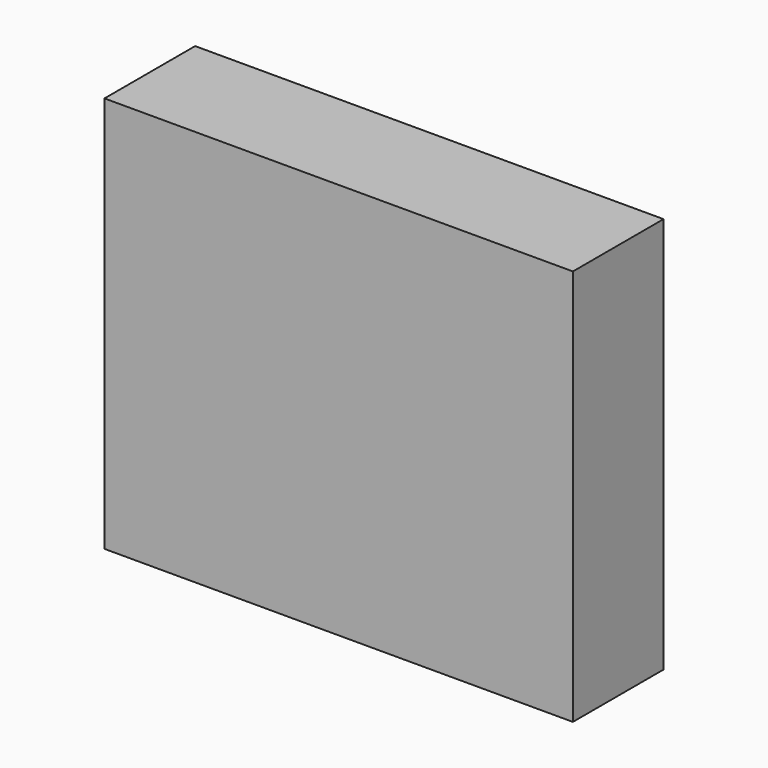
from build123d import *

# Parameters (mm, degrees)
BOX004_W               = 2500
BOX004_H               = 558.8
BOX004_DEPTH           = 457.2
BOX003_W               = 2500
BOX003_H               = 558.8
BOX003_DEPTH           = 457.2
BOX002_W               = 2500
BOX002_H               = 558.8
BOX002_DEPTH           = 457.2
BOX001_W               = 2500
BOX001_H               = 558.8
BOX001_DEPTH           = 457.2
BOX_W                  = 2520
BOX_H                  = 609.6
BOX_DEPTH              = 2133.6
CUT003_PLACEMENT_ANGLE = 180


with BuildPart() as cube004:
    # Box004 → Box004 (new body)
    with BuildSketch(Plane(origin=(25.4, 0, 1651), x_dir=(1, 0, 0), z_dir=(0, 0, 1))):
        with Locations((1250, 279.4)):
            Rectangle(BOX004_W, BOX004_H)
    extrude(amount=BOX004_DEPTH)


with BuildPart() as cube003:
    # Box003 → Box003 (new body)
    with BuildSketch(Plane(origin=(25.4, 0, 685.8), x_dir=(1, 0, 0), z_dir=(0, 0, 1))):
        with Locations((1250, 279.4)):
            Rectangle(BOX003_W, BOX003_H)
    extrude(amount=BOX003_DEPTH)


with BuildPart() as cube002:
    # Box002 → Box002 (new body)
    with BuildSketch(Plane(origin=(25.4, 0, 203.2), x_dir=(1, 0, 0), z_dir=(0, 0, 1))):
        with Locations((1250, 279.4)):
            Rectangle(BOX002_W, BOX002_H)
    extrude(amount=BOX002_DEPTH)


with BuildPart() as cube001:
    # Box001 → Box001 (new body)
    with BuildSketch(Plane(origin=(25.4, 0, 1168.4), x_dir=(1, 0, 0), z_dir=(0, 0, 1))):
        with Locations((1250, 279.4)):
            Rectangle(BOX001_W, BOX001_H)
    extrude(amount=BOX001_DEPTH)


with BuildPart() as cut003:
    # Box → Box (new body)
    with BuildSketch(Plane.XY):
        with Locations((1260, 304.8)):
            Rectangle(BOX_W, BOX_H)
    extrude(amount=BOX_DEPTH)

    # Cut: cut Cube001
    add(cube001.part, mode=Mode.SUBTRACT)

    # Cut001: cut Cube002
    add(cube002.part, mode=Mode.SUBTRACT)

    # Cut002: cut Cube003
    add(cube003.part, mode=Mode.SUBTRACT)

    # Cut003: cut Cube004
    add(cube004.part, mode=Mode.SUBTRACT)


with BuildPart() as cut003_1:
    # Cut003 placement: moved
    add(cut003.part.moved(Location((3857, 759, 0))).rotate(Axis((3857, 759, 0), (0, 0, 1)), CUT003_PLACEMENT_ANGLE))


solid = cut003_1.part
